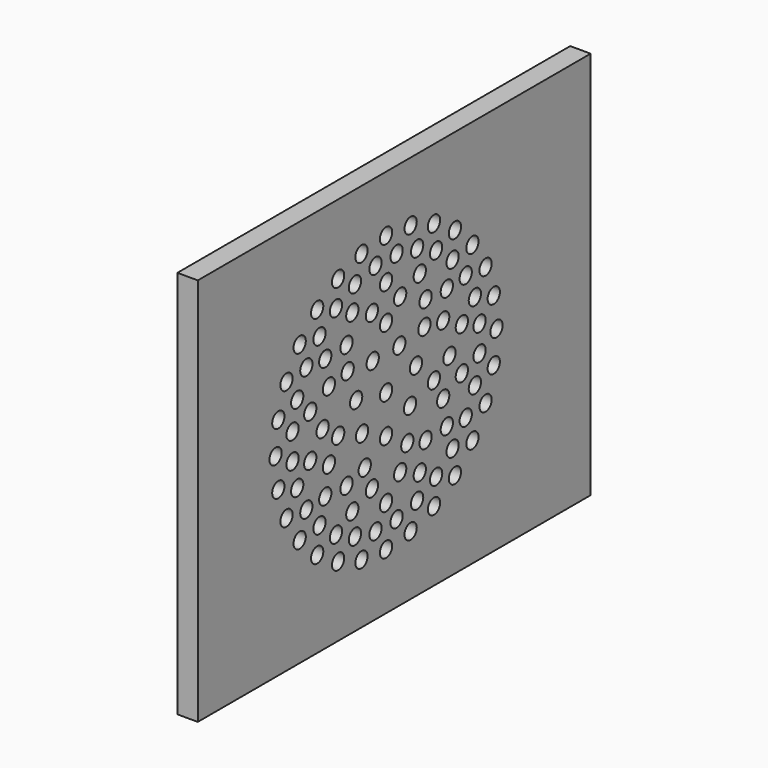
from build123d import *

# Parameters (mm, degrees)
SKETCH009_W     = 96
SKETCH009_H     = 76
PAD004_DEPTH    = 4
SKETCH012_R     = 28.5
POCKET002_DEPTH = 0.8
SKETCH010_R     = 1.5
HOLE003_DEPTH   = 4.001


with BuildPart() as part:
    # Sketch009 → Pad004 (new body)
    with BuildSketch(Plane.YZ.offset(126)):
        with Locations((-48, 38)):
            Rectangle(SKETCH009_W, SKETCH009_H)
    extrude(amount=PAD004_DEPTH)

    # Sketch012 (on Face4 of Hole003) → Pocket002 (cut)
    with BuildSketch(Plane(origin=(126, 0, 0), x_dir=(0, 1, 0), z_dir=(-1, 0, 0))):
        with Locations((-50, -38)):
            Circle(SKETCH012_R)
    extrude(amount=-POCKET002_DEPTH, mode=Mode.SUBTRACT)

    # Sketch010 (on Face6 of Pad004) → Hole003 (cut, through all)
    with BuildSketch(Plane.YZ.offset(130)):
        with Locations((-50, 65)):
            Circle(SKETCH010_R)
        with Locations((-43.9919347832, 64.3230536289)):
            Circle(SKETCH010_R)
        with Locations((-38.2851390438, 62.3261594334)):
            Circle(SKETCH010_R)
        with Locations((-33.1657753498, 59.1094500266)):
            Circle(SKETCH010_R)
        with Locations((-28.8905499734, 54.8342246502)):
            Circle(SKETCH010_R)
        with Locations((-25.6738405666, 49.7148609562)):
            Circle(SKETCH010_R)
        with Locations((-23.6769463711, 44.0080652168)):
            Circle(SKETCH010_R)
        with Locations((-23, 38)):
            Circle(SKETCH010_R)
        with Locations((-23.6769463711, 31.9919347832)):
            Circle(SKETCH010_R)
        with Locations((-25.6738405666, 26.2851390438)):
            Circle(SKETCH010_R)
        with Locations((-28.8905499734, 21.1657753498)):
            Circle(SKETCH010_R)
        with Locations((-33.1657753498, 16.8905499734)):
            Circle(SKETCH010_R)
        with Locations((-38.2851390438, 13.6738405666)):
            Circle(SKETCH010_R)
        with Locations((-43.9919347832, 11.6769463711)):
            Circle(SKETCH010_R)
        with Locations((-50, 11)):
            Circle(SKETCH010_R)
        with Locations((-56.0080652168, 11.6769463711)):
            Circle(SKETCH010_R)
        with Locations((-61.7148609562, 13.6738405666)):
            Circle(SKETCH010_R)
        with Locations((-66.8342246502, 16.8905499734)):
            Circle(SKETCH010_R)
        with Locations((-71.1094500266, 21.1657753498)):
            Circle(SKETCH010_R)
        with Locations((-74.3261594334, 26.2851390438)):
            Circle(SKETCH010_R)
        with Locations((-76.3230536289, 31.9919347832)):
            Circle(SKETCH010_R)
        with Locations((-77, 38)):
            Circle(SKETCH010_R)
        with Locations((-76.3230536289, 44.0080652168)):
            Circle(SKETCH010_R)
        with Locations((-74.3261594334, 49.7148609562)):
            Circle(SKETCH010_R)
        with Locations((-71.1094500266, 54.8342246502)):
            Circle(SKETCH010_R)
        with Locations((-66.8342246502, 59.1094500266)):
            Circle(SKETCH010_R)
        with Locations((-61.7148609562, 62.3261594334)):
            Circle(SKETCH010_R)
        with Locations((-56.0080652168, 64.3230536289)):
            Circle(SKETCH010_R)
        with Locations((-47.4248170496, 60.8553808275)):
            Circle(SKETCH010_R)
        with Locations((-42.403581575, 59.7093165971)):
            Circle(SKETCH010_R)
        with Locations((-37.7632622401, 57.4746565823)):
            Circle(SKETCH010_R)
        with Locations((-33.7365440327, 54.2634559673)):
            Circle(SKETCH010_R)
        with Locations((-30.5253434177, 50.2367377599)):
            Circle(SKETCH010_R)
        with Locations((-28.2906834029, 45.596418425)):
            Circle(SKETCH010_R)
        with Locations((-27.1446191725, 40.5751829504)):
            Circle(SKETCH010_R)
        with Locations((-27.1446191725, 35.4248170496)):
            Circle(SKETCH010_R)
        with Locations((-28.2906834029, 30.403581575)):
            Circle(SKETCH010_R)
        with Locations((-30.5253434177, 25.7632622401)):
            Circle(SKETCH010_R)
        with Locations((-33.7365440327, 21.7365440327)):
            Circle(SKETCH010_R)
        with Locations((-37.7632622401, 18.5253434177)):
            Circle(SKETCH010_R)
        with Locations((-42.403581575, 16.2906834029)):
            Circle(SKETCH010_R)
        with Locations((-47.4248170496, 15.1446191725)):
            Circle(SKETCH010_R)
        with Locations((-52.5751829504, 15.1446191725)):
            Circle(SKETCH010_R)
        with Locations((-57.596418425, 16.2906834029)):
            Circle(SKETCH010_R)
        with Locations((-62.2367377599, 18.5253434177)):
            Circle(SKETCH010_R)
        with Locations((-66.2634559673, 21.7365440327)):
            Circle(SKETCH010_R)
        with Locations((-69.4746565823, 25.7632622401)):
            Circle(SKETCH010_R)
        with Locations((-71.7093165971, 30.403581575)):
            Circle(SKETCH010_R)
        with Locations((-72.8553808275, 35.4248170496)):
            Circle(SKETCH010_R)
        with Locations((-72.8553808275, 40.5751829504)):
            Circle(SKETCH010_R)
        with Locations((-71.7093165971, 45.596418425)):
            Circle(SKETCH010_R)
        with Locations((-69.4746565823, 50.2367377599)):
            Circle(SKETCH010_R)
        with Locations((-66.2634559673, 54.2634559673)):
            Circle(SKETCH010_R)
        with Locations((-62.2367377599, 57.4746565823)):
            Circle(SKETCH010_R)
        with Locations((-57.596418425, 59.7093165971)):
            Circle(SKETCH010_R)
        with Locations((-52.5751829504, 60.8553808275)):
            Circle(SKETCH010_R)
        with Locations((-50, 57)):
            Circle(SKETCH010_R)
        with Locations((-41.7562089568, 55.1184084901)):
            Circle(SKETCH010_R)
        with Locations((-35.1452018331, 49.8463062353)):
            Circle(SKETCH010_R)
        with Locations((-31.4763696685, 42.2278977452)):
            Circle(SKETCH010_R)
        with Locations((-31.4763696685, 33.7721022548)):
            Circle(SKETCH010_R)
        with Locations((-35.1452018331, 26.1536937647)):
            Circle(SKETCH010_R)
        with Locations((-41.7562089568, 20.8815915099)):
            Circle(SKETCH010_R)
        with Locations((-50, 19)):
            Circle(SKETCH010_R)
        with Locations((-58.2437910432, 20.8815915099)):
            Circle(SKETCH010_R)
        with Locations((-64.8547981669, 26.1536937647)):
            Circle(SKETCH010_R)
        with Locations((-68.5236303315, 33.7721022548)):
            Circle(SKETCH010_R)
        with Locations((-68.5236303315, 42.2278977452)):
            Circle(SKETCH010_R)
        with Locations((-64.8547981669, 49.8463062353)):
            Circle(SKETCH010_R)
        with Locations((-58.2437910432, 55.1184084901)):
            Circle(SKETCH010_R)
        with Locations((-46.5509255237, 53.1113826388)):
            Circle(SKETCH010_R)
        with Locations((-40.3359080712, 50.1183879783)):
            Circle(SKETCH010_R)
        with Locations((-36.0349825475, 44.7251979563)):
            Circle(SKETCH010_R)
        with Locations((-34.5, 38)):
            Circle(SKETCH010_R)
        with Locations((-36.0349825475, 31.2748020437)):
            Circle(SKETCH010_R)
        with Locations((-40.3359080712, 25.8816120217)):
            Circle(SKETCH010_R)
        with Locations((-46.5509255237, 22.8886173612)):
            Circle(SKETCH010_R)
        with Locations((-53.4490744763, 22.8886173612)):
            Circle(SKETCH010_R)
        with Locations((-59.6640919288, 25.8816120217)):
            Circle(SKETCH010_R)
        with Locations((-63.9650174525, 31.2748020437)):
            Circle(SKETCH010_R)
        with Locations((-65.5, 38)):
            Circle(SKETCH010_R)
        with Locations((-63.9650174525, 44.7251979563)):
            Circle(SKETCH010_R)
        with Locations((-59.6640919288, 50.1183879783)):
            Circle(SKETCH010_R)
        with Locations((-53.4490744763, 53.1113826388)):
            Circle(SKETCH010_R)
        with Locations((-50, 50)):
            Circle(SKETCH010_R)
        with Locations((-40.6180222104, 45.4818776223)):
            Circle(SKETCH010_R)
        with Locations((-38.3008650538, 35.3297487925)):
            Circle(SKETCH010_R)
        with Locations((-44.7933951306, 27.1883735852)):
            Circle(SKETCH010_R)
        with Locations((-55.2066048694, 27.1883735852)):
            Circle(SKETCH010_R)
        with Locations((-61.6991349462, 35.3297487925)):
            Circle(SKETCH010_R)
        with Locations((-59.3819777896, 45.4818776223)):
            Circle(SKETCH010_R)
        with Locations((-46.7458719566, 44.7572665093)):
            Circle(SKETCH010_R)
        with Locations((-42.6880406586, 39.6689070047)):
            Circle(SKETCH010_R)
        with Locations((-44.1362638815, 33.3238264861)):
            Circle(SKETCH010_R)
        with Locations((-50, 30.5)):
            Circle(SKETCH010_R)
        with Locations((-55.8637361185, 33.3238264861)):
            Circle(SKETCH010_R)
        with Locations((-57.3119593414, 39.6689070047)):
            Circle(SKETCH010_R)
        with Locations((-53.2541280434, 44.7572665093)):
            Circle(SKETCH010_R)
        with Locations((-50, 38)):
            Circle(SKETCH010_R)
    extrude(amount=-HOLE003_DEPTH, mode=Mode.SUBTRACT)


solid = part.part
